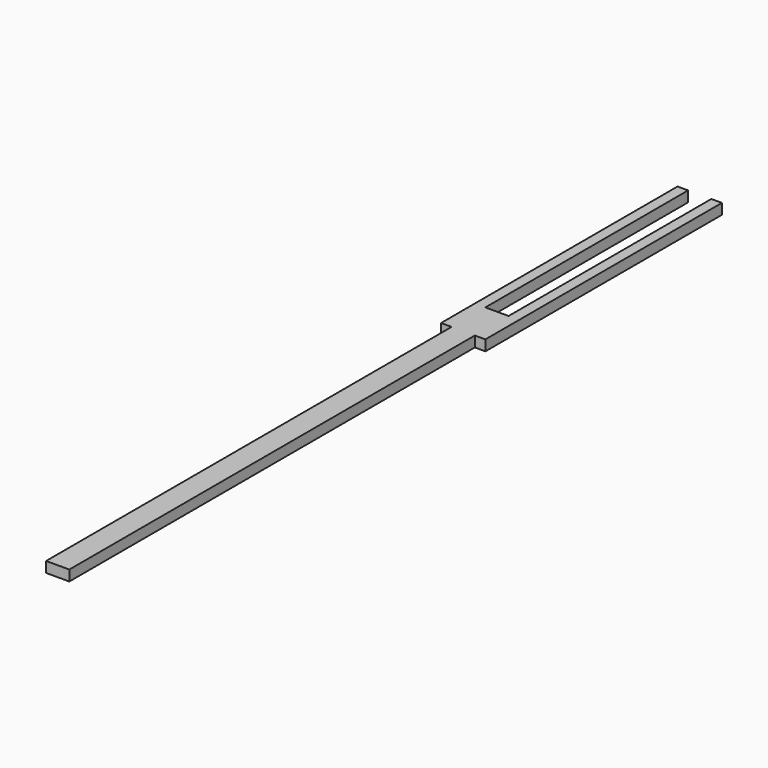
from build123d import *

# Parameters (mm, degrees)
F1_DEPTH = 3.175


with BuildPart() as f1:
    # F0 (on Top) → F1 (new body)
    with BuildSketch(Plane.XY):
        Polygon((-63.146477, 115.279474), (-63.146477, 127.979474), (-63.146477, 204.179474), (-66.321477, 204.179474), (-66.321477, 115.279474), align=None)
        Polygon((-56.161477, 204.179474), (-56.161477, 127.979474), (-56.161477, 115.279474), (-52.986477, 115.279474), (-52.986477, 204.179474), align=None)
        Polygon((-56.161477, 127.979474), (-63.146477, 127.979474), (-63.146477, 115.279474), (-63.146477, -37.120526), (-56.161477, -37.120526), (-56.161477, 115.279474), align=None)
    extrude(amount=F1_DEPTH)


solid = f1.part
